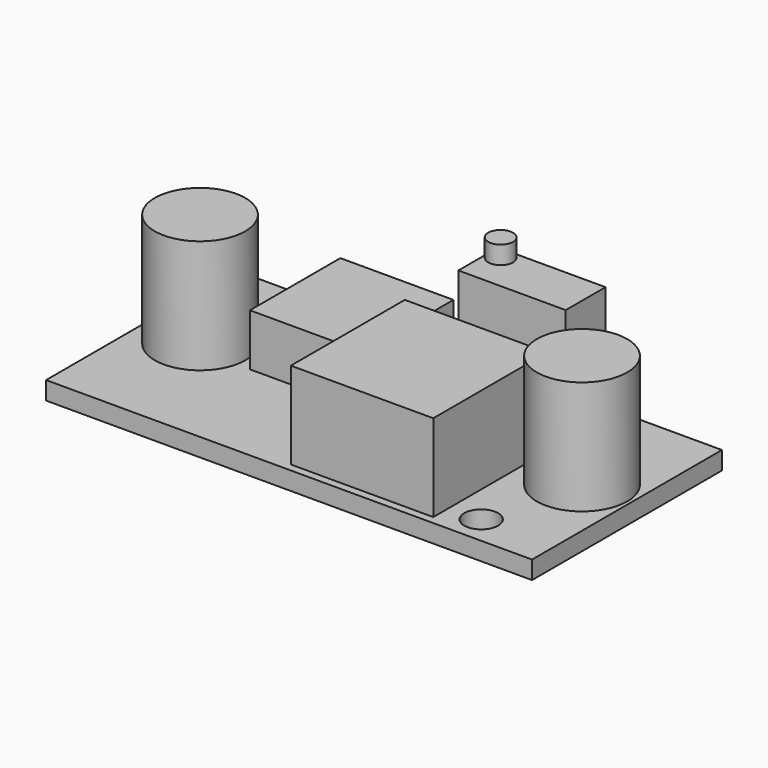
from build123d import *

# Parameters (mm, degrees)
F0_W          = 43
F0_H          = 21
F0_R          = 1.5
F1_DEPTH      = 1.6
F3_R          = 4
F4_DEPTH      = 10.05
F5_DEPTH      = 10.05
F3_W          = 12.6
F3_H          = 12.6
F6_DEPTH      = 7.7
F3_W_2        = 9.5
F3_H_2        = 4.4
F7_DEPTH      = 10
F7_DEPTH_BACK = 3.6
F3_W_3        = 10
F3_H_3        = 10
F8_DEPTH      = 4.6
F10_R         = 1.1
F11_DEPTH     = 1.6


with BuildPart() as f1:
    # F0 (on Top) → F1 (new body)
    with BuildSketch(Plane.XY):
        Rectangle(F0_W, F0_H)
        with Locations((15, -8)):
            Circle(F0_R, mode=Mode.SUBTRACT)
        with Locations((-15, 8)):
            Circle(F0_R, mode=Mode.SUBTRACT)
    extrude(amount=F1_DEPTH)


with BuildPart() as f4:
    # F3 (on offset) → F4 (new body)
    with BuildSketch(Plane.XY.offset(1.6)):
        with Locations((-16.6, 0.4)):
            Circle(F3_R)
    extrude(amount=F4_DEPTH)


with BuildPart() as f5:
    # F3 (on offset) → F5 (new body)
    with BuildSketch(Plane.XY.offset(1.6)):
        with Locations((17.2, 0.4)):
            Circle(F3_R)
    extrude(amount=F5_DEPTH)


with BuildPart() as f6:
    # F3 (on offset) → F6 (new body)
    with BuildSketch(Plane.XY.offset(1.6)):
        with Locations((5.9, -3.5)):
            Rectangle(F3_W, F3_H)
    extrude(amount=F6_DEPTH)


with BuildPart() as f7:
    # F3 (on offset) → F7 (new body, two sides)
    with BuildSketch(Plane.XY.offset(1.6)) as f7_sk:
        with Locations((7.25, 7.3)):
            Rectangle(F3_W_2, F3_H_2)
    extrude(amount=F7_DEPTH)
    extrude(f7_sk.sketch, amount=-F7_DEPTH_BACK)


with BuildPart() as f8:
    # F3 (on offset) → F8 (new body)
    with BuildSketch(Plane.XY.offset(1.6)):
        with Locations((-6.5, 4.55)):
            Rectangle(F3_W_3, F3_H_3)
    extrude(amount=F8_DEPTH)


with BuildPart() as f11:
    # F10 (on offset) → F11 (new body)
    with BuildSketch(Plane.XY.offset(11.6)):
        with Locations((3.6, 8.4)):
            Circle(F10_R)
    extrude(amount=F11_DEPTH)


solid = Compound([f1.part, f4.part, f5.part, f6.part, f7.part, f8.part, f11.part])
